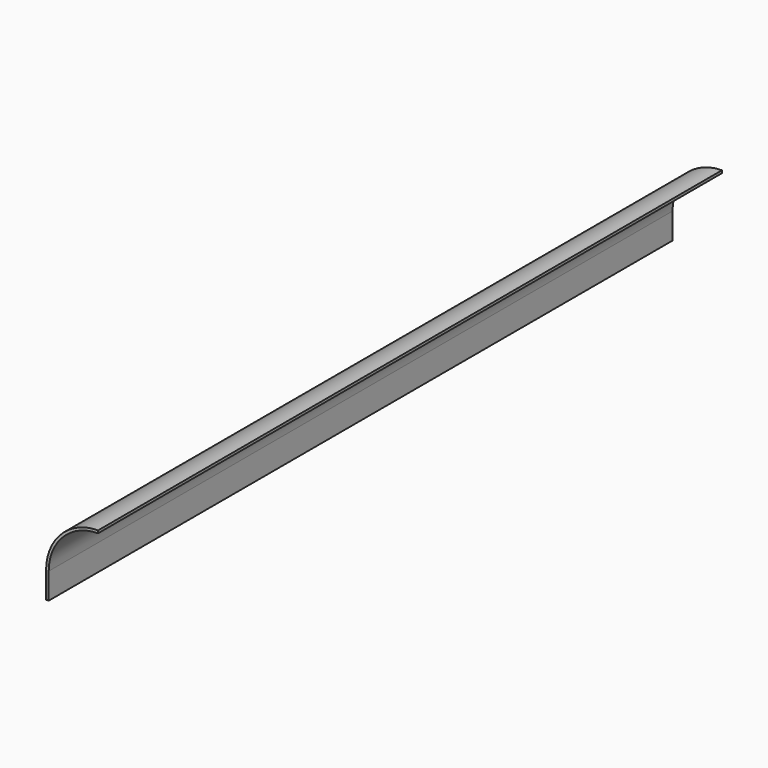
from build123d import *

# Parameters (mm, degrees)
F1_DEPTH = 900


with BuildPart() as f1:
    # F0 (on Front) → F1 (new body)
    with BuildSketch(Plane.XZ):
        with BuildLine():
            ThreePointArc((0, 60), (-42.426407, 42.426407), (-60, 0))
            Line((-60, 0), (-60, -30))
            Line((-60, -30), (-57, -30))
            Line((-57, -30), (-57, 0))
            ThreePointArc((-57, 0), (-40.305087, 40.305087), (0, 57))
            Line((0, 57), (0, 60))
        make_face()
    extrude(amount=F1_DEPTH)


solid = f1.part
